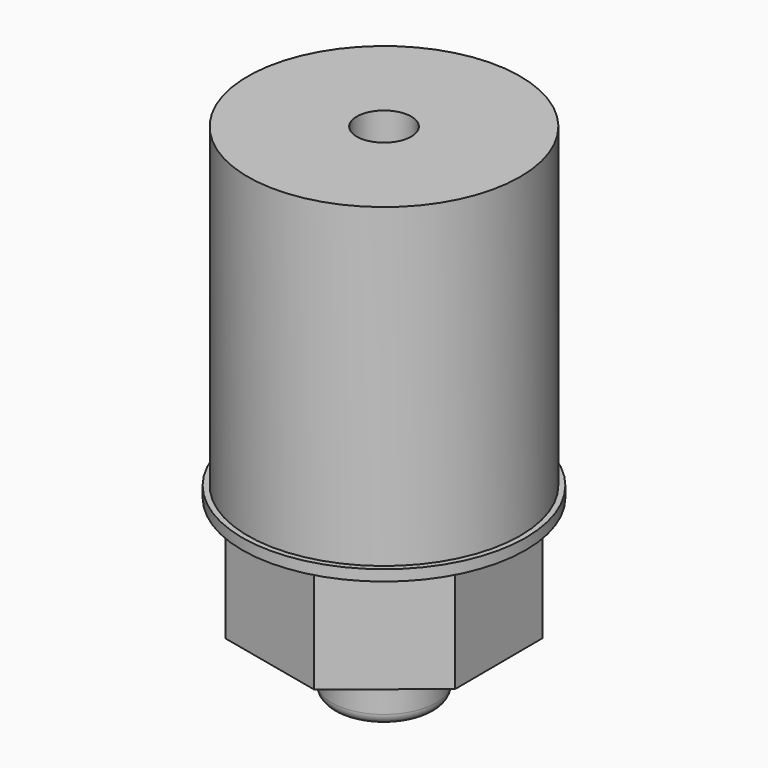
from build123d import *

# Parameters (mm, degrees)
F0_R     = 4.8
F0_R_2   = 2.5
F1_DEPTH = 6
F2_DEPTH = 40
F0_R_3   = 12.5
F3_DEPTH = 40
F4_DEPTH = 10
F0_R_4   = 13
F5_DEPTH = 11
F6_DEPTH = 10
F7_R     = 1


with BuildPart() as f1:
    # F0 (on Top) → F1 (new body)
    with BuildSketch(Plane.XY):
        Circle(F0_R)
        Circle(F0_R_2, mode=Mode.SUBTRACT)
    extrude(amount=-F1_DEPTH)

    # F0 (on Top) → F2 (join)
    with BuildSketch(Plane.XY):
        Polygon((2.640845, -11.350968), (10.521084, -5.012517), (10.478732, 5.100462), (2.545681, 11.372688), (-7.30432, 9.081049), (-11.654019, -0.048806), (-7.228004, -9.141909), align=None)
        Circle(F0_R, mode=Mode.SUBTRACT)
        Circle(F0_R)
        Circle(F0_R_2, mode=Mode.SUBTRACT)
    extrude(amount=F2_DEPTH)

    # F0 (on Top) → F3 (join)
    with BuildSketch(Plane.XY):
        Circle(F0_R_3)
        Polygon((10.478732, 5.100462), (10.521084, -5.012517), (2.640845, -11.350968), (-7.228004, -9.141909), (-11.654019, -0.048806), (-7.30432, 9.081049), (2.545681, 11.372688), align=None, mode=Mode.SUBTRACT)
    extrude(amount=F3_DEPTH)

    # F0 (on Top) → F4 (cut)
    with BuildSketch(Plane.XY):
        Circle(F0_R_3)
        Polygon((10.478732, 5.100462), (10.521084, -5.012517), (2.640845, -11.350968), (-7.228004, -9.141909), (-11.654019, -0.048806), (-7.30432, 9.081049), (2.545681, 11.372688), align=None, mode=Mode.SUBTRACT)
    extrude(amount=F4_DEPTH, mode=Mode.SUBTRACT)

    # F0 (on Top) → F5 (join)
    with BuildSketch(Plane.XY):
        Circle(F0_R_4)
        Circle(F0_R_3, mode=Mode.SUBTRACT)
    extrude(amount=F5_DEPTH)

    # F0 (on Top) → F6 (cut)
    with BuildSketch(Plane.XY):
        Circle(F0_R_4)
        Circle(F0_R_3, mode=Mode.SUBTRACT)
    extrude(amount=F6_DEPTH, mode=Mode.SUBTRACT)

    # F7
    f7_edges = [f1.edges().sort_by_distance(p)[0] for p in [
        (-4.8, 0, -6),
    ]]
    fillet(f7_edges, radius=F7_R)


solid = f1.part
